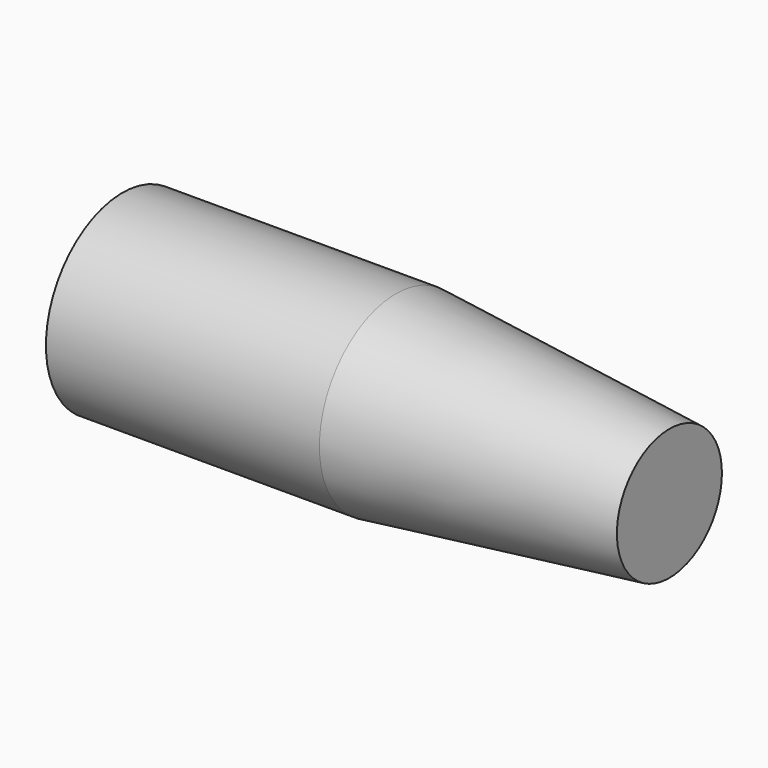
from build123d import *


with BuildPart() as f1:
    # F0 (on Top) → F1 (revolve)
    with BuildSketch(Plane.XY):
        Polygon((0, 17.5), (0, 0), (50, 0), (100, 0), (100, 12), (50, 17.5), align=None)
        Polygon((0, 17.5), (0, 0), (50, 0), (100, 0), (100, 12), (50, 17.5), align=None)
        Polygon((0, 17.5), (0, 0), (50, 0), (100, 0), (100, 12), (50, 17.5), align=None)
    revolve(axis=Axis((50, 0, 0), (1, 0, 0)))


solid = f1.part
